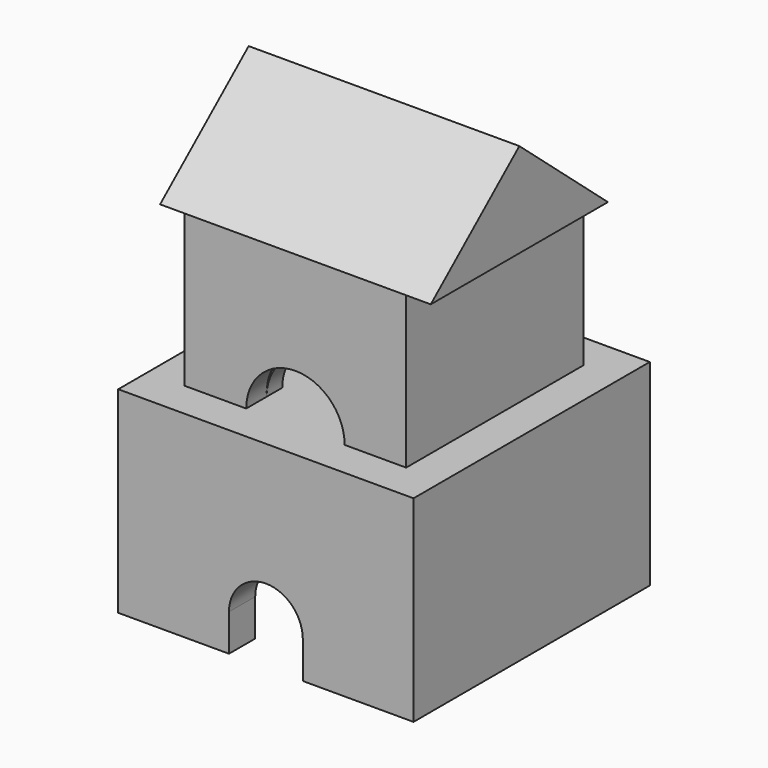
from build123d import *

# Parameters (mm, degrees)
F0_W           = 1828.8
F0_H           = 1828.8
F0_W_2         = 1422.4
F0_H_2         = 1422.4
F1_DEPTH       = 1219.2
F2_W           = 1371.6
F2_H           = 1371.6
F2_R           = 609.6
F5_DEPTH       = 914.4
F6_W           = 1371.6
F6_H           = 1371.6
F7_DEPTH       = 25.4
F9_W           = 1422.4
F9_H           = 1422.4
F10_DEPTH      = 101.6
F11_DEPTH      = 203.2
F13_DEPTH      = 1524
F13_DEPTH_BACK = 152.4
F15_DEPTH      = 304.8
F15_DEPTH_BACK = 228.601
F16_R          = 31.75
F16_R_2        = 25.4
F17_DEPTH      = 25.4


with BuildPart() as f1:
    # F0 (on Top) → F1 (new body)
    with BuildSketch(Plane.XY):
        Rectangle(F0_W, F0_H)
        Rectangle(F0_W_2, F0_H_2, mode=Mode.SUBTRACT)
    extrude(amount=F1_DEPTH)

    # F9 (on face) → F10 (join)
    with BuildSketch(Plane.XY.offset(1219.2)):
        Rectangle(F9_W, F9_H)
    extrude(amount=-F10_DEPTH)

    # F8 (on face) → F11 (cut, through all)
    with BuildSketch(Plane.XZ.offset(914.4)):
        with BuildLine():
            Line((228.6, 0), (228.6, 228.6))
            ThreePointArc((228.6, 228.6), (0, 457.2), (-228.6, 228.6))
            Line((-228.6, 228.6), (-228.6, 0))
            Line((-228.6, 0), (228.6, 0))
        make_face()
    extrude(amount=-F11_DEPTH, mode=Mode.SUBTRACT)


with BuildPart() as f4:
    # F3 (on Front) → F4 (revolve)
    with BuildSketch(Plane.XZ):
        with BuildLine():
            Line((508, 1219.2), (609.6, 1219.2))
            ThreePointArc((609.6, 1219.2), (431.0522938113, 1650.2522938113), (0, 1828.8))
            Line((0, 1828.8), (0, 1727.2))
            ThreePointArc((0, 1727.2), (359.2102448428, 1578.4102448428), (508, 1219.2))
        make_face()
    revolve(axis=Axis((0, 0, 1524), (0, 0, 1)))


with BuildPart() as f5:
    # F2 (on face) → F5 (new body)
    with BuildSketch(Plane.XY.offset(1219.2)):
        Rectangle(F2_W, F2_H)
        Circle(F2_R, mode=Mode.SUBTRACT)
    extrude(amount=F5_DEPTH)

    # F6 (on face) → F7 (join)
    with BuildSketch(Plane.XY.offset(2133.6)):
        Rectangle(F6_W, F6_H)
    extrude(amount=F7_DEPTH)

    # F12 (on face) → F13 (join, two sides)
    with BuildSketch(Plane.YZ.offset(685.8)) as f13_sk:
        Polygon((0, 2743.2), (-685.8, 2159), (685.8, 2159), align=None)
    extrude(amount=-F13_DEPTH)
    extrude(f13_sk.sketch, amount=F13_DEPTH_BACK)


with BuildPart() as f15_tool:
    # F14 (on face) → F15 (new body, two sides)
    with BuildSketch(Plane.XZ.offset(685.8)) as f15_sk:
        with BuildLine():
            Line((-304.8, 1219.2), (304.8, 1219.2))
            ThreePointArc((304.8, 1219.2), (0, 1524), (-304.8, 1219.2))
        make_face()
    extrude(amount=-F15_DEPTH)
    extrude(f15_sk.sketch, amount=F15_DEPTH_BACK)


with BuildPart() as f4_1:
    add(f4.part)

    # F15: cut by f15_tool
    add(f15_tool.part, mode=Mode.SUBTRACT)


with BuildPart() as f5_1:
    add(f5.part)

    # F15: cut by f15_tool
    add(f15_tool.part, mode=Mode.SUBTRACT)


with BuildPart() as f17:
    # F16 (on face) → F17 (new body)
    with BuildSketch(Plane(origin=(0, 0, 0), x_dir=(1, 0, 0), z_dir=(0, 0, -1))):
        with Locations((-1262.85625, 0)):
            Circle(F16_R)
        with Locations((-1262.85625, 0)):
            Circle(F16_R_2, mode=Mode.SUBTRACT)
    extrude(amount=-F17_DEPTH)


solid = Compound([f1.part, f4_1.part, f5_1.part, f17.part])
